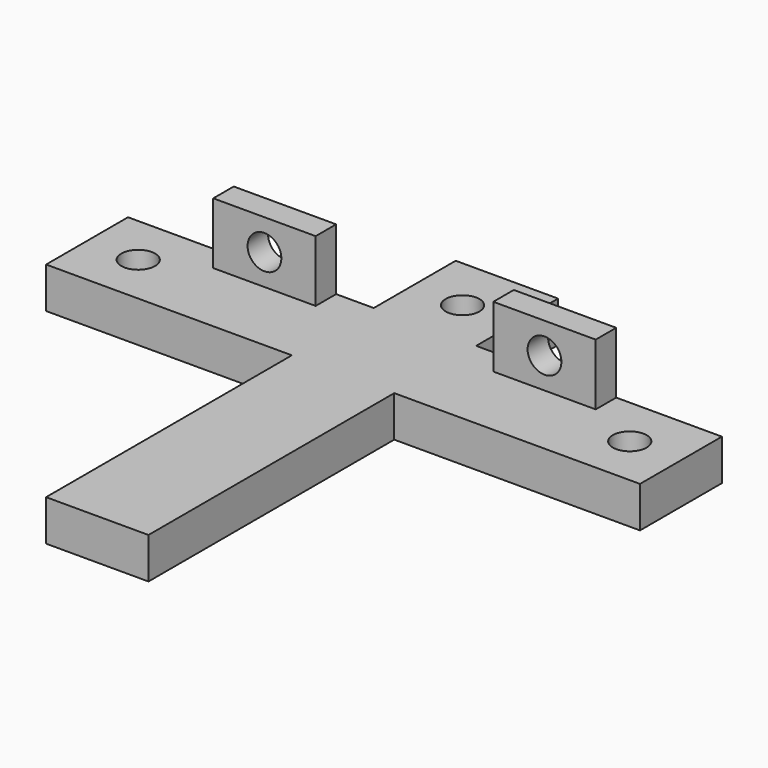
from build123d import *

# Parameters (mm, degrees)
F0_R     = 1.65
F1_DEPTH = 4
F2_W     = 10
F2_H     = 2.5
F3_DEPTH = 6
F4_R     = 1.65
F5_DEPTH = 12.501


with BuildPart() as f1:
    # F0 (on Top) → F1 (new body)
    with BuildSketch(Plane.XY):
        Polygon((10, 0), (0, 0), (0, -10), (-24, -10), (-24, -20), (0, -20), (0, -50), (10, -50), (10, -20), (34, -20), (34, -10), (10, -10), align=None)
        with Locations((-19, -15)):
            Circle(F0_R, mode=Mode.SUBTRACT)
        with Locations((29, -15)):
            Circle(F0_R, mode=Mode.SUBTRACT)
        with Locations((5, -5.4125)):
            Circle(F0_R, mode=Mode.SUBTRACT)
    extrude(amount=F1_DEPTH)

    # F2 (on face) → F3 (join)
    with BuildSketch(Plane.XY.offset(4)):
        with Locations((-8.675, -11.25)):
            Rectangle(F2_W, F2_H)
    extrude(amount=F3_DEPTH)

    # F4 (on face) → F5 (cut, through all)
    with BuildSketch(Plane.XZ.offset(12.5)):
        with Locations((-8.675, 7)):
            Circle(F4_R)
    extrude(amount=-F5_DEPTH, mode=Mode.SUBTRACT)

    # F7: F1 across plane


with BuildPart() as f1_1:
    add(f1.part)
    add(f1.part.mirror(Plane(origin=(5, -35, 2), x_dir=(0, 1, 0), z_dir=(1, 0, 0))))


solid = f1_1.part
